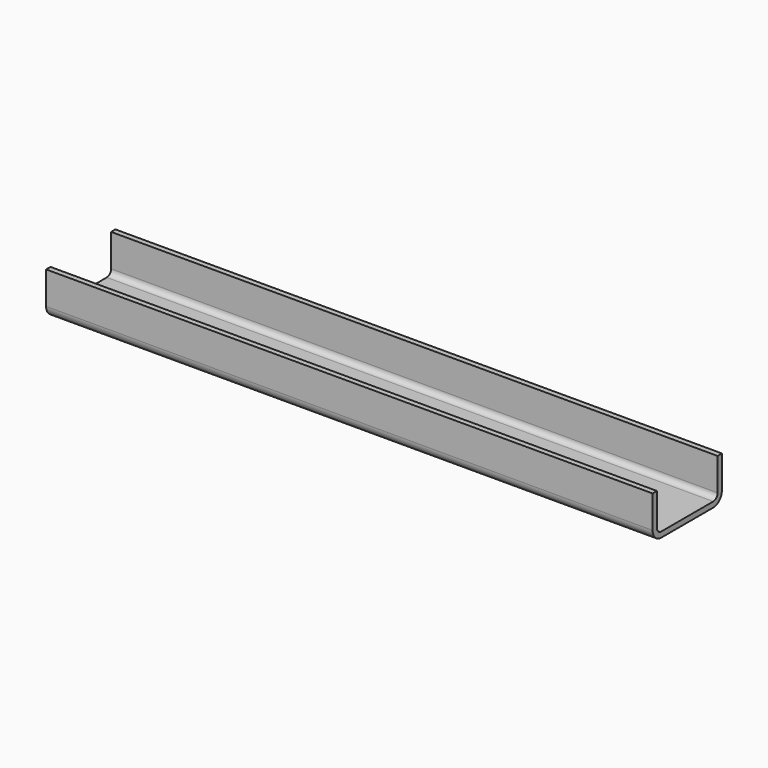
from build123d import *

# Parameters (mm, degrees)
F1_DEPTH = 711.2
F2_R     = 3.175
F3_DEPTH = 25.4


with BuildPart() as f1:
    # F0 (on Right) → F1 (new body)
    with BuildSketch(Plane.YZ):
        with BuildLine():
            Line((-38.1, -25.4), (38.1, -25.4))
            ThreePointArc((38.1, -25.4), (47.080256, -21.680256), (50.8, -12.7))
            Line((50.8, -12.7), (50.8, 25.4))
            Line((50.8, 25.4), (44.45, 25.4))
            Line((44.45, 25.4), (44.45, -12.7))
            ThreePointArc((44.45, -12.7), (42.590128, -17.190128), (38.1, -19.05))
            Line((38.1, -19.05), (-38.1, -19.05))
            ThreePointArc((-38.1, -19.05), (-42.590128, -17.190128), (-44.45, -12.7))
            Line((-44.45, -12.7), (-44.45, 25.4))
            Line((-44.45, 25.4), (-50.8, 25.4))
            Line((-50.8, 25.4), (-50.8, -12.7))
            ThreePointArc((-50.8, -12.7), (-47.080256, -21.680256), (-38.1, -25.4))
        make_face()
    extrude(amount=F1_DEPTH)

    # F2 (on face) → F3 (cut)
    with BuildSketch(Plane(origin=(0, 0, -25.4), x_dir=(1, 0, 0), z_dir=(0, 0, -1))):
        with Locations((355.6, 0)):
            Circle(F2_R)
        with Locations((454.025, 0)):
            Circle(F2_R)
        with Locations((552.45, 0)):
            Circle(F2_R)
        with Locations((650.875, 0)):
            Circle(F2_R)
        with Locations((257.175, 0)):
            Circle(F2_R)
        with Locations((158.75, 0)):
            Circle(F2_R)
        with Locations((60.325, 0)):
            Circle(F2_R)
    extrude(amount=-F3_DEPTH, mode=Mode.SUBTRACT)


solid = f1.part
